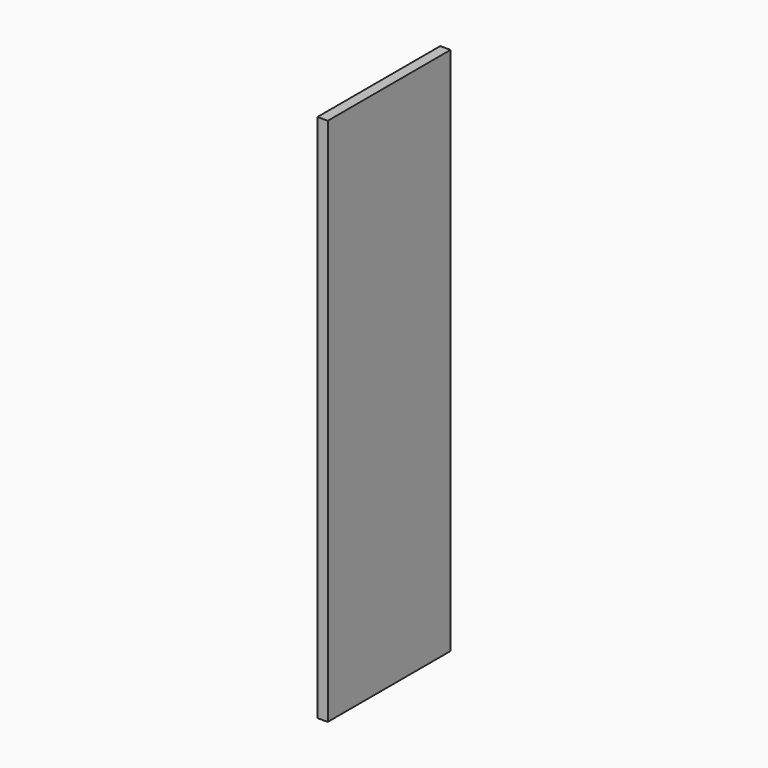
from build123d import *

# Parameters (mm, degrees)
F0_W     = 4.9511119723
F0_H     = 73.6725758761
F2_DEPTH = 254
F1_W     = 4.9511119723
F1_H     = 73.6725758761


with BuildPart() as f2:
    # F0 (on Top) → F2 (new body)
    with BuildSketch(Plane.XY):
        with Locations((-29.9047268927, 11.0904956236)):
            Rectangle(F0_W, F0_H)
    extrude(amount=F2_DEPTH)


with BuildPart() as f2b:
    # F1 (on face) → F2, piece 2 (new body)
    with BuildSketch(Plane.XY):
        with Locations((-29.9047268927, 11.0904956236)):
            Rectangle(F1_W, F1_H)
    extrude(amount=F2_DEPTH)


solid = Compound([f2.part, f2b.part])
